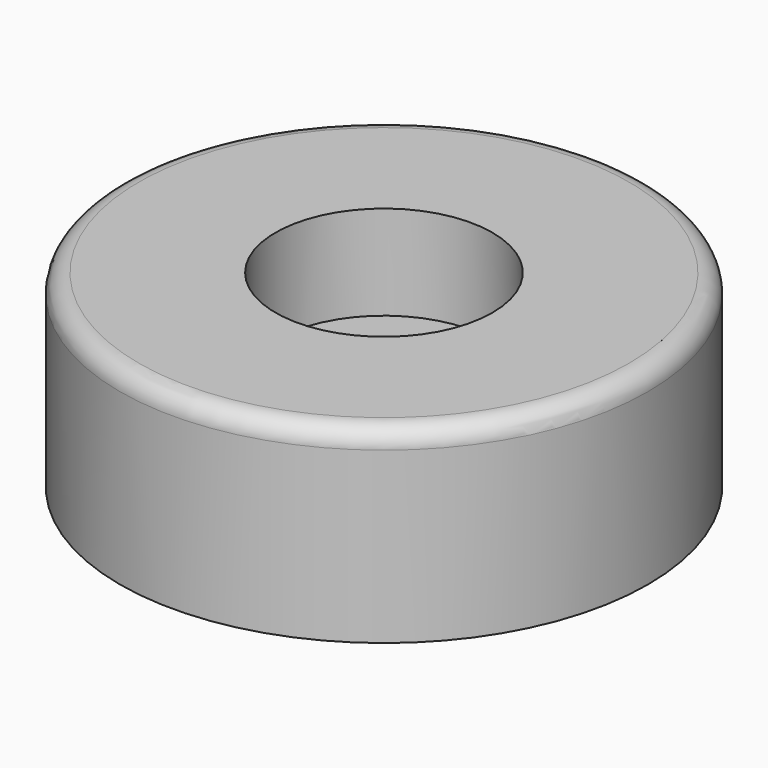
from build123d import *

# Parameters (mm, degrees)
F0_R     = 14
F1_DEPTH = 10
F2_R     = 5.75
F3_DEPTH = 5
F4_R     = 2.5
F5_DEPTH = 5.001
F6_R     = 1


with BuildPart() as f1:
    # F0 (on Top) → F1 (new body)
    with BuildSketch(Plane.XY):
        Circle(F0_R)
    extrude(amount=F1_DEPTH)

    # F2 (on face) → F3 (cut)
    with BuildSketch(Plane.XY.offset(10)):
        Circle(F2_R)
    extrude(amount=-F3_DEPTH, mode=Mode.SUBTRACT)

    # F4 (on face) → F5 (cut, through all)
    with BuildSketch(Plane.XY.offset(5)):
        Circle(F4_R)
    extrude(amount=-F5_DEPTH, mode=Mode.SUBTRACT)

    # F6
    f6_edges = [f1.edges().sort_by_distance(p)[0] for p in [
        (-14, 0, 10),
    ]]
    fillet(f6_edges, radius=F6_R)


solid = f1.part
